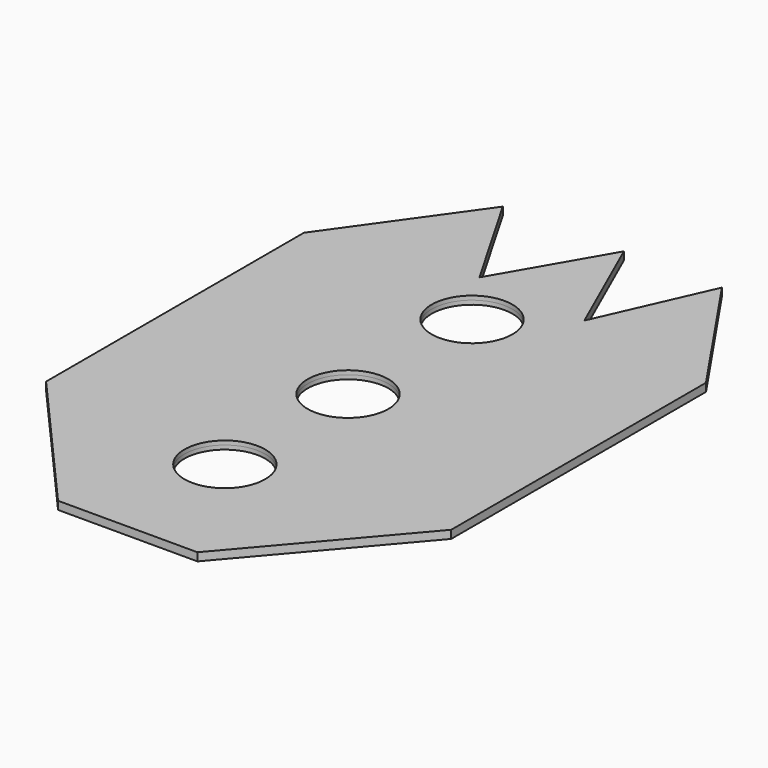
from build123d import *

# Parameters (mm, degrees)
F0_W     = 100
F0_H     = 150
F1_DEPTH = 1
F2_R     = 10
F3_DEPTH = 25
F5_DEPTH = 25
F8_DEPTH = 25
F7_R     = 10
F9_DEPTH = 1


with BuildPart() as f1:
    # F0 (on Top) → F1 (new body)
    with BuildSketch(Plane.XY):
        with Locations((-8.1639520824, 60.1602055132)):
            Rectangle(F0_W, F0_H)
    extrude(amount=F1_DEPTH)

    # F2 (on face) → F3 (cut)
    with BuildSketch(Plane.XY.offset(1)):
        with Locations((-10.0705353543, 94.5251360536)):
            Circle(F2_R)
        with Locations((-9.4941006973, 17.237842083)):
            Circle(F2_R)
        with Locations((-9.2731751502, 55.1192685962)):
            Circle(F2_R)
    extrude(amount=-F3_DEPTH, mode=Mode.SUBTRACT)

    # F4 (on face) → F5 (cut)
    with BuildSketch(Plane.XY.offset(1)):
        Polygon((41.8360479176, 23.1922029477), (9.3773484498, -14.8397944868), (41.8360479176, -14.8397944868), align=None)
        Polygon((-25.1544182483, -14.8397944868), (-58.1639520824, 22.7151076707), (-58.1639520824, -14.8397944868), align=None)
    extrude(amount=-F5_DEPTH, mode=Mode.SUBTRACT)

    # F6 (on face) → F8 (cut)
    with BuildSketch(Plane.XY.offset(1)):
        Polygon((-4.9593081612, 135.1602055132), (-34.9667105038, 135.1602055132), (-19.9630093325, 109.1815806235), align=None)
        Polygon((19.3310942209, 135.1602055132), (-4.9593081612, 135.1602055132), (7.1858930298, 107.7285798226), align=None)
        Polygon((41.8360479176, 135.1602055132), (19.3310942209, 135.1602055132), (41.8360479176, 102.0916848462), align=None)
        Polygon((-58.1639520824, 135.1602055132), (-58.1639520824, 102.5735827495), (-34.9667105038, 135.1602055132), align=None)
    extrude(amount=-F8_DEPTH, mode=Mode.SUBTRACT)

    # F7 (on face) → F9 (join)
    with BuildSketch(Plane.XY.offset(1)):
        Polygon((-19.9630093325, 109.1815806235), (-34.9667105038, 135.1602055132), (-58.1639520824, 102.5735827495), (-58.1639520824, 22.7151076707), (-25.1544182483, -14.8397944868), (9.3773484498, -14.8397944868), (41.8360479176, 23.1922029477), (41.8360479176, 102.0916848462), (19.3310942209, 135.1602055132), (7.1858930298, 107.7285798226), (-4.9593081612, 135.1602055132), align=None)
        with Locations((-9.4941006973, 17.237842083)):
            Circle(F7_R, mode=Mode.SUBTRACT)
        with Locations((-9.2731751502, 55.1192685962)):
            Circle(F7_R, mode=Mode.SUBTRACT)
        with Locations((-10.0705353543, 94.5251360536)):
            Circle(F7_R, mode=Mode.SUBTRACT)
    extrude(amount=F9_DEPTH)


solid = f1.part
